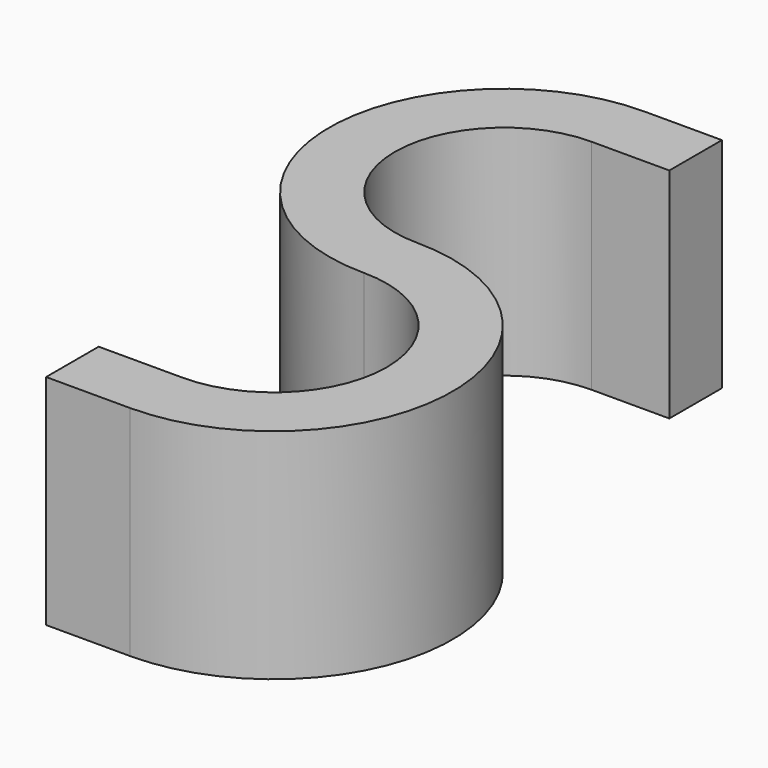
from build123d import *

# Parameters (mm, degrees)
F1_DEPTH = 25.4


with BuildPart() as f1:
    # F0 (on Top) → F1 (new body)
    with BuildSketch(Plane.XY):
        with BuildLine():
            ThreePointArc((0, 13.190946), (13.190946, 0), (0, -13.190946))
            Line((0, -13.190946), (-9.774976, -13.190946))
            Line((-9.774976, -13.190946), (-9.774976, -20.837533))
            Line((-9.774976, -20.837533), (0, -20.837533))
            ThreePointArc((0, -20.837533), (20.837533, 0), (0, 20.837533))
            ThreePointArc((0, 20.837533), (-12.708639, 33.546172), (0, 46.254811))
            Line((0, 46.254811), (9.050903, 46.254811))
            Line((9.050903, 46.254811), (9.050903, 53.901398))
            Line((9.050903, 53.901398), (0, 53.901398))
            ThreePointArc((0, 53.901398), (-20.355226, 33.546172), (0, 13.190946))
        make_face()
    extrude(amount=F1_DEPTH)


solid = f1.part
